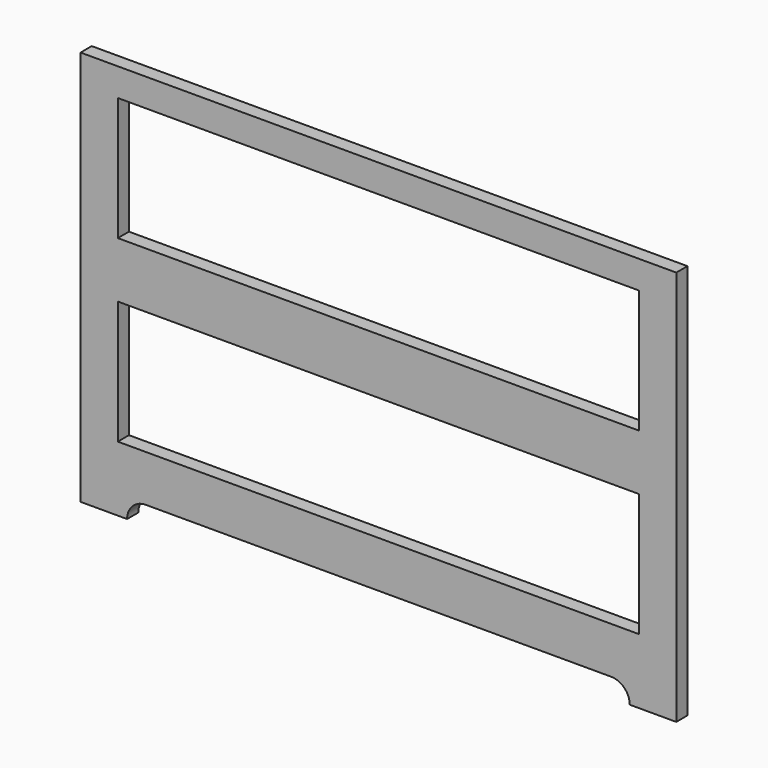
from build123d import *

# Parameters (mm, degrees)
F0_W     = 812.8
F0_H     = 488.95
F0_W_2   = 711.2
F0_H_2   = 168.275
F1_DEPTH = 19.05


with BuildPart() as f1:
    # F0 (on Front) → F1 (new body)
    with BuildSketch(Plane.XZ):
        with BuildLine():
            Line((812.8, 0), (0, 0))
            Line((0, 0), (0, -50.8))
            Line((0, -50.8), (63.5, -50.8))
            ThreePointArc((63.5, -50.8), (70.939488, -32.839488), (88.9, -25.4))
            Line((88.9, -25.4), (406.4, -25.4))
            Line((406.4, -25.4), (723.9, -25.4))
            ThreePointArc((723.9, -25.4), (741.860512, -32.839488), (749.3, -50.8))
            Line((749.3, -50.8), (812.8, -50.8))
            Line((812.8, -50.8), (812.8, 0))
        make_face()
        with Locations((406.4, 244.475)):
            Rectangle(F0_W, F0_H)
        with Locations((406.4, 122.2375)):
            Rectangle(F0_W_2, F0_H_2, mode=Mode.SUBTRACT)
        with Locations((406.4, 366.7125)):
            Rectangle(F0_W_2, F0_H_2, mode=Mode.SUBTRACT)
    extrude(amount=F1_DEPTH)


solid = f1.part
